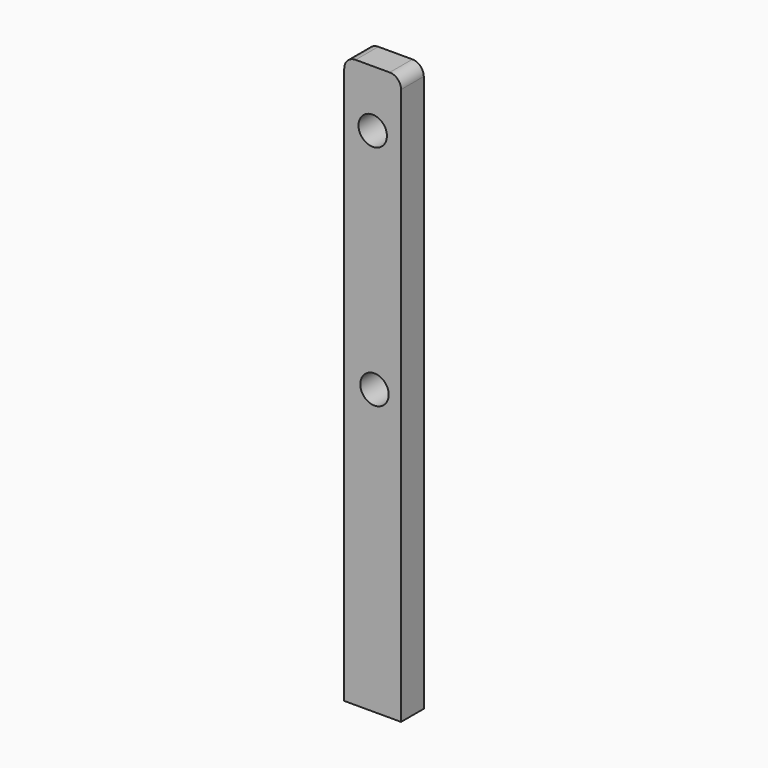
from build123d import *

# Parameters (mm, degrees)
F0_R     = 2.5
F1_DEPTH = 5


with BuildPart() as f1:
    # F0 (on Front) → F1 (new body)
    with BuildSketch(Plane.XZ):
        with BuildLine():
            Line((-10, 0), (0, 0))
            Line((0, 0), (0, 98))
            ThreePointArc((0, 98), (-0.585786, 99.414214), (-2, 100))
            Line((-2, 100), (-8, 100))
            ThreePointArc((-8, 100), (-9.414214, 99.414214), (-10, 98))
            Line((-10, 98), (-10, 0))
        make_face()
        with Locations((-4.678254, 50)):
            Circle(F0_R, mode=Mode.SUBTRACT)
        with Locations((-4.985834, 90)):
            Circle(F0_R, mode=Mode.SUBTRACT)
    extrude(amount=F1_DEPTH)


solid = f1.part
